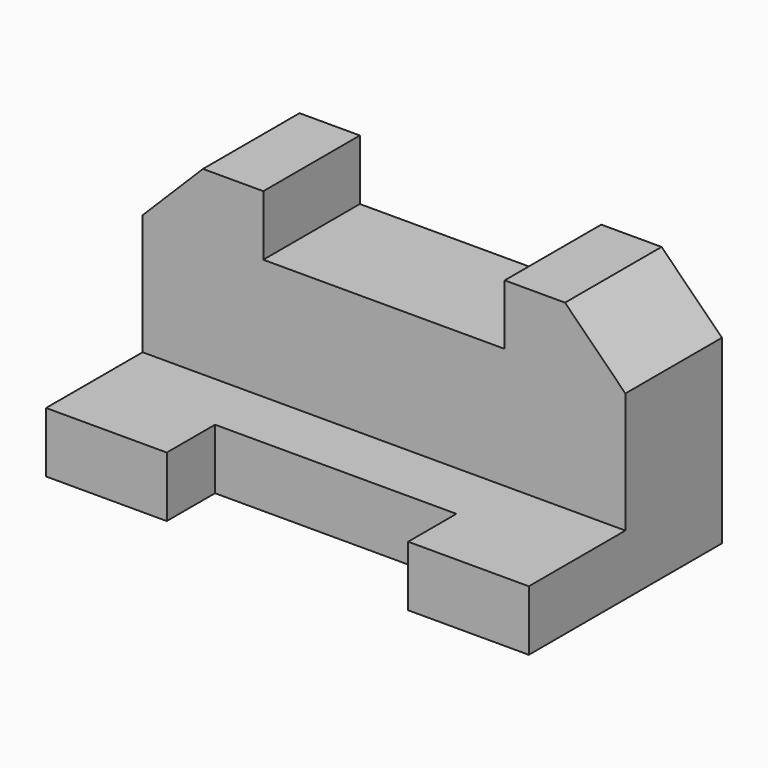
from build123d import *

# Parameters (mm, degrees)
F1_DEPTH = 25.4
F2_W     = 203.2
F2_H     = 50.8
F3_DEPTH = 76.2
F4_W     = 101.6
F4_H     = 50.8
F5_DEPTH = 25.4
F7_DEPTH = 50.8
F9_DEPTH = 50.8


with BuildPart() as f1:
    # F0 (on Top) → F1 (new body)
    with BuildSketch(Plane.XY):
        Polygon((101.6, -50.8), (101.6, 50.8), (-101.6, 50.8), (-101.6, -50.8), (-50.8, -50.8), (-50.8, -25.4), (50.8, -25.4), (50.8, -50.8), align=None)
    extrude(amount=F1_DEPTH)

    # F2 (on face) → F3 (join)
    with BuildSketch(Plane.XY.offset(25.4)):
        with Locations((0, 25.4)):
            Rectangle(F2_W, F2_H)
    extrude(amount=F3_DEPTH)

    # F4 (on face) → F5 (cut)
    with BuildSketch(Plane.XY.offset(101.6)):
        with Locations((0, 25.4)):
            Rectangle(F4_W, F4_H)
    extrude(amount=-F5_DEPTH, mode=Mode.SUBTRACT)

    # F6 (on face) → F7 (cut)
    with BuildSketch(Plane.XZ):
        Polygon((101.6, 101.6), (76.2, 101.6), (101.6, 76.2), align=None)
    extrude(amount=-F7_DEPTH, mode=Mode.SUBTRACT)

    # F8 (on face) → F9 (cut)
    with BuildSketch(Plane.XZ):
        Polygon((-101.6, 76.2), (-76.2, 101.6), (-101.6, 101.6), align=None)
    extrude(amount=-F9_DEPTH, mode=Mode.SUBTRACT)


solid = f1.part
